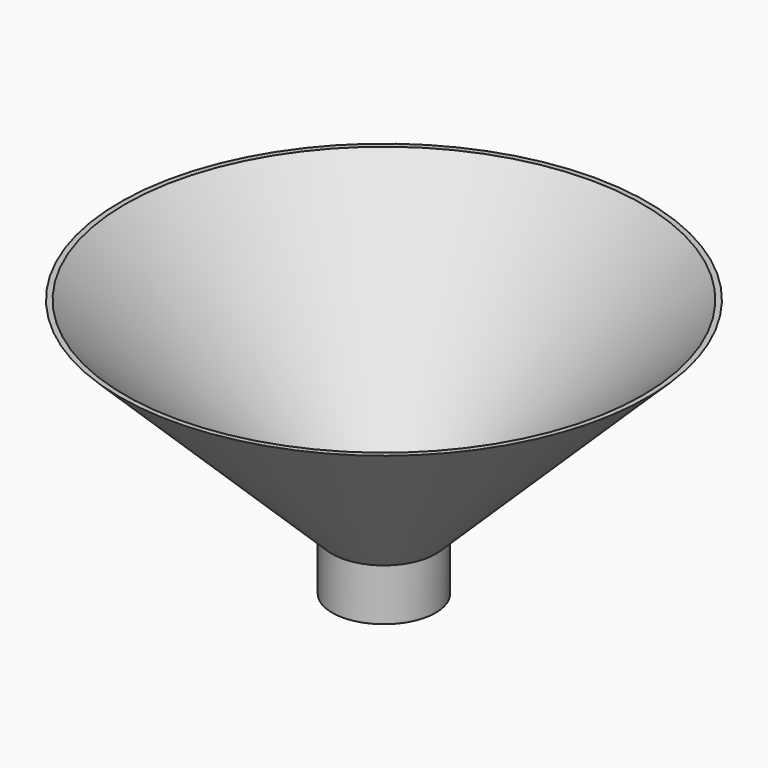
from build123d import *

# Parameters (mm, degrees)
F0_R     = 10
F0_R_2   = 9
F1_DEPTH = 10


with BuildPart() as f1:
    # F0 (on Top) → F1 (new body)
    with BuildSketch(Plane.XY):
        Circle(F0_R)
        Circle(F0_R_2, mode=Mode.SUBTRACT)
    extrude(amount=F1_DEPTH)

    # F7 (on Right) → F8 (revolve)
    with BuildSketch(Plane.YZ):
        Polygon((10, 10), (51, 50), (50, 50), (9, 10), align=None)
    revolve(axis=Axis((0, 0, 50), (0, 0, 1)))


solid = f1.part
